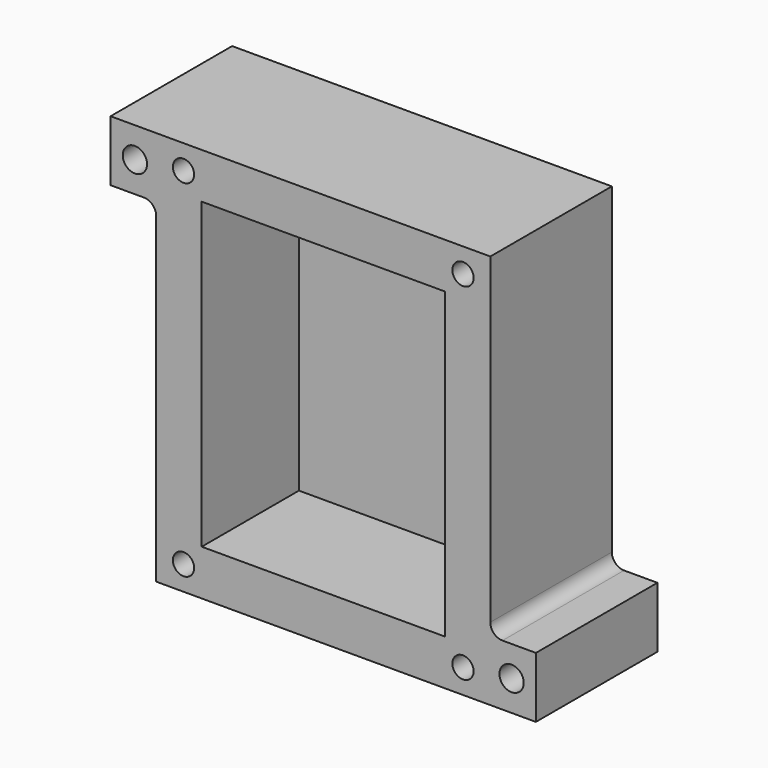
from build123d import *

# Parameters (mm, degrees)
F0_W     = 70
F0_H     = 65
F1_DEPTH = 25
F2_W     = 40
F2_H     = 50
F3_DEPTH = 20
F5_DEPTH = 25.001
F7_DEPTH = 25.001
F8_R     = 2
F8_R_2   = 1.75
F9_DEPTH = 25.001


with BuildPart() as f1:
    # F0 (on Front) → F1 (new body)
    with BuildSketch(Plane.XZ):
        Rectangle(F0_W, F0_H)
    extrude(amount=F1_DEPTH)

    # F2 (on face) → F3 (cut)
    with BuildSketch(Plane.XZ.offset(25)):
        Rectangle(F2_W, F2_H)
    extrude(amount=-F3_DEPTH, mode=Mode.SUBTRACT)

    # F4 (on face) → F5 (cut, through all)
    with BuildSketch(Plane.XZ.offset(25)):
        with BuildLine():
            Line((-35, 22.5), (-35, -32.5))
            Line((-35, -32.5), (-27.5, -32.5))
            Line((-27.5, -32.5), (-27.5, 20.5))
            ThreePointArc((-27.5, 20.5), (-28.085786, 21.914214), (-29.5, 22.5))
            Line((-29.5, 22.5), (-35, 22.5))
        make_face()
    extrude(amount=-F5_DEPTH, mode=Mode.SUBTRACT)

    # F6 (on face) → F7 (cut, through all)
    with BuildSketch(Plane.XZ.offset(25)):
        with BuildLine():
            Line((35, -22.5), (35, 32.5))
            Line((35, 32.5), (27.5, 32.5))
            Line((27.5, 32.5), (27.5, -20.5))
            ThreePointArc((27.5, -20.5), (28.085786, -21.914214), (29.5, -22.5))
            Line((29.5, -22.5), (35, -22.5))
        make_face()
    extrude(amount=-F7_DEPTH, mode=Mode.SUBTRACT)

    # F8 (on face) → F9 (cut, through all)
    with BuildSketch(Plane.XZ.offset(25)):
        with Locations((-31, 27.5)):
            Circle(F8_R)
        with Locations((31, -27.5)):
            Circle(F8_R)
        with Locations((-23, 28.5)):
            Circle(F8_R_2)
        with Locations((23, 28.5)):
            Circle(F8_R_2)
        with Locations((-23, -28.5)):
            Circle(F8_R_2)
        with Locations((23, -28.5)):
            Circle(F8_R_2)
    extrude(amount=-F9_DEPTH, mode=Mode.SUBTRACT)


solid = f1.part
